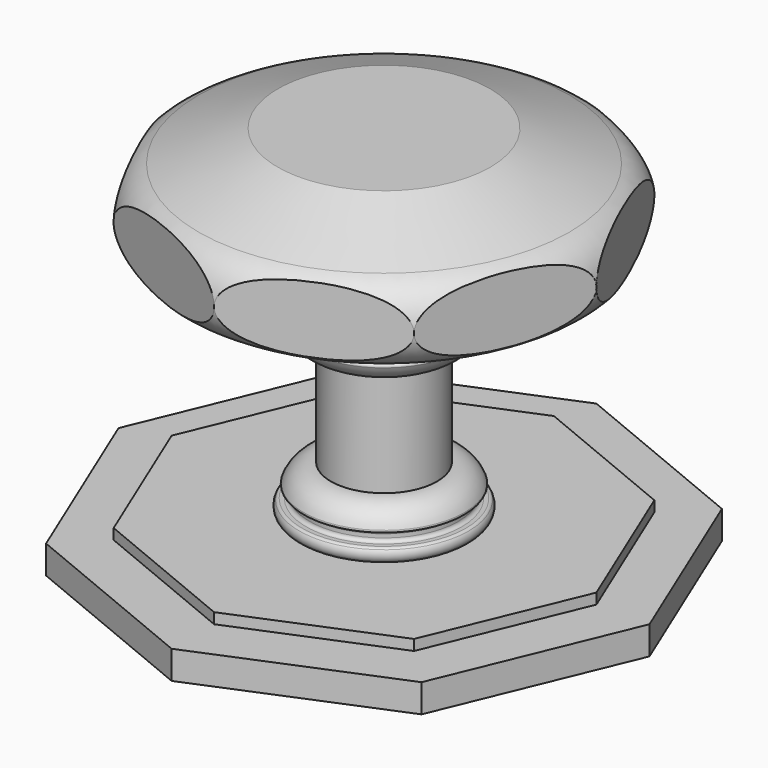
from build123d import *

# Parameters (mm, degrees)
F1_DEPTH = 4
F3_DEPTH = 1.5
F8_DEPTH = 20


with BuildPart() as f1:
    # F0 (on Top) → F1 (new body)
    with BuildSketch(Plane.XY):
        Polygon((26.5165042945, -26.5165042945), (37.5, 0), (26.5165042945, 26.5165042945), (0, 37.5), (-26.5165042945, 26.5165042945), (-37.5, 0), (-26.5165042945, -26.5165042945), (0, -37.5), align=None)
    extrude(amount=F1_DEPTH)

    # F2 (on face) → F3 (join)
    with BuildSketch(Plane.XY.offset(4)):
        Polygon((21.2132034356, -21.2132034356), (30, 0), (21.2132034356, 21.2132034356), (0, 30), (-21.2132034356, 21.2132034356), (-30, 0), (-21.2132034356, -21.2132034356), (0, -30), align=None)
    extrude(amount=F3_DEPTH)

    # F4 (on Front) → F5 (revolve)
    with BuildSketch(Plane.XZ):
        with BuildLine():
            Line((7.5, 12), (7.5, 27))
            ThreePointArc((7.5, 27), (9.853156608, 27.6750482482), (11.3722863431, 29.5947568217))
            ThreePointArc((11.3722863431, 29.5947568217), (11.337901549, 29.8709196397), (11.0913524124, 30))
            Line((11.0913524124, 30), (11, 30))
            ThreePointArc((11, 30), (10.6464466094, 30.1464466094), (10.5, 30.5))
            Line((10.5, 30.5), (10.5, 31))
            ThreePointArc((10.5, 31), (10.6464466094, 31.3535533906), (11, 31.5))
            Line((11, 31.5), (11.5679908753, 31.5))
            ThreePointArc((11.5679908753, 31.5), (11.7958971888, 31.5549621227), (11.9736986433, 31.707765151))
            ThreePointArc((11.9736986433, 31.707765151), (12.1601609204, 32.7157664228), (11.5, 33.5))
            Line((11.5, 33.5), (0, 33.5))
            Line((0, 33.5), (0, 5.5))
            Line((0, 5.5), (11.5, 5.5))
            ThreePointArc((11.5, 5.5), (12.1601609204, 6.2842335772), (11.9736986433, 7.292234849))
            ThreePointArc((11.9736986433, 7.292234849), (11.7958971888, 7.4450378773), (11.5679908753, 7.5))
            Line((11.5679908753, 7.5), (11, 7.5))
            ThreePointArc((11, 7.5), (10.6464466094, 7.6464466094), (10.5, 8))
            Line((10.5, 8), (10.5, 8.5))
            ThreePointArc((10.5, 8.5), (10.6464466094, 8.8535533906), (11, 9))
            Line((11, 9), (11.0913524124, 9))
            ThreePointArc((11.0913524124, 9), (11.337901549, 9.1290803603), (11.3722863431, 9.4052431783))
            ThreePointArc((11.3722863431, 9.4052431783), (9.853156608, 11.3249517518), (7.5, 12))
        make_face()
    revolve(axis=Axis((0, 0, 46.752139926), (0, 0, 1)))

    # F7 (on offset) → F8 (join, through all)
    with BuildSketch(Plane.XY.offset(53.5)):
        Polygon((21.2132034356, -21.2132034356), (30, 0), (21.2132034356, 21.2132034356), (0, 30), (-21.2132034356, 21.2132034356), (-30, 0), (-21.2132034356, -21.2132034356), (0, -30), align=None)
    extrude(amount=-F8_DEPTH)

    # F9 (on Front) → F10 (revolve, cut)
    with BuildSketch(Plane.XZ):
        with BuildLine():
            ThreePointArc((26.201633562, 49.0814702058), (30, 43.5), (26.201633562, 37.9185297942))
            Line((26.201633562, 37.9185297942), (15, 33.5))
            Line((15, 33.5), (37.5, 33.5))
            Line((37.5, 33.5), (37.5, 53.5))
            Line((37.5, 53.5), (15, 53.5))
            Line((15, 53.5), (26.201633562, 49.0814702058))
        make_face()
    revolve(axis=Axis((0, 0, 31.0883652419), (0, 0, 1)), mode=Mode.SUBTRACT)


solid = f1.part
